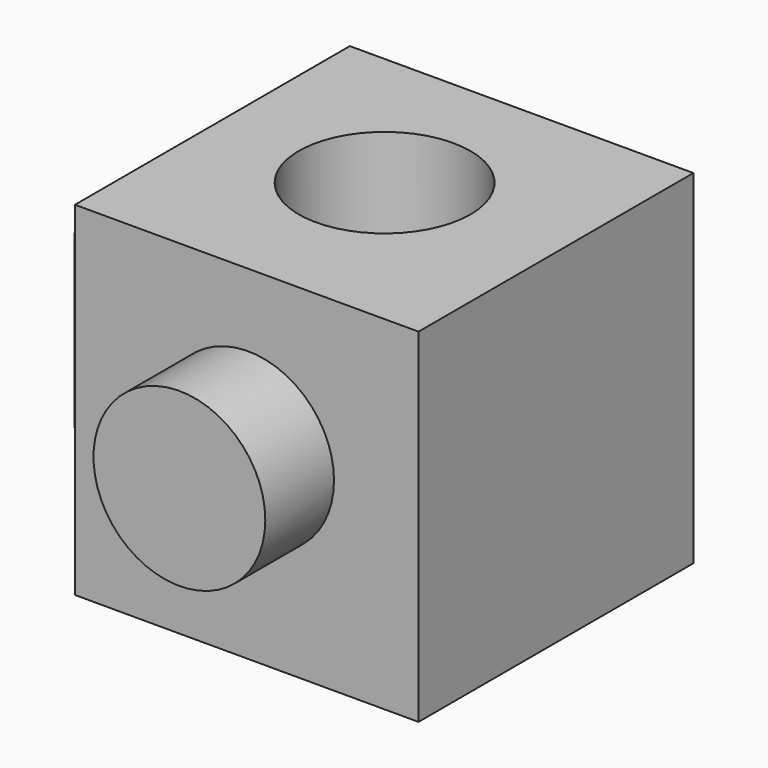
from build123d import *

# Parameters (mm, degrees)
F0_W     = 50.8
F0_H     = 50.8
F1_DEPTH = 50.8
F2_R     = 12.7
F3_DEPTH = 50.8
F4_W     = 25.4
F4_H     = 25.4
F5_DEPTH = 12.7
F6_R     = 12.7
F7_DEPTH = 12.7


with BuildPart() as f1:
    # F0 (on Front) → F1 (new body)
    with BuildSketch(Plane.XZ):
        with Locations((-25.4, 25.4)):
            Rectangle(F0_W, F0_H)
    extrude(amount=F1_DEPTH)

    # F2 (on face) → F3 (cut)
    with BuildSketch(Plane.XY.offset(50.8)):
        with Locations((-26.325265, -24.162833)):
            Circle(F2_R)
    extrude(amount=-F3_DEPTH, mode=Mode.SUBTRACT)

    # F4 (on face) → F5 (join)
    with BuildSketch(Plane(origin=(-50.8, 0, 0), x_dir=(0, -1, 0), z_dir=(-1, 0, 0))):
        with Locations((22.289918, 23.888238)):
            Rectangle(F4_W, F4_H)
    extrude(amount=F5_DEPTH)

    # F6 (on face) → F7 (join)
    with BuildSketch(Plane.XZ.offset(50.8)):
        with Locations((-25.19704, 27.359473)):
            Circle(F6_R)
    extrude(amount=F7_DEPTH)


solid = f1.part
